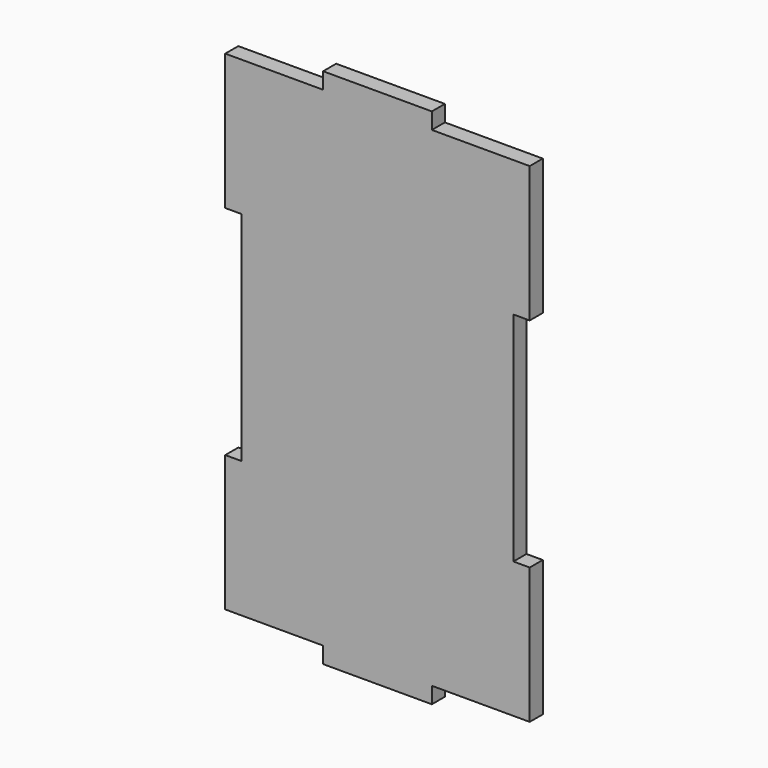
from build123d import *

# Parameters (mm, degrees)
F1_DEPTH = 3


with BuildPart() as f1:
    # F0 (on Front) → F1 (new body)
    with BuildSketch(Plane.XZ):
        Polygon((10, 48), (0, 48), (-10, 48), (-10, 45), (-28, 45), (-28, 20), (-25, 20), (-25, 0), (-25, -20), (-28, -20), (-28, -45), (-10, -45), (-10, -48), (0, -48), (10, -48), (10, -45), (28, -45), (28, -20), (25, -20), (25, 0), (25, 20), (28, 20), (28, 45), (10, 45), align=None)
    extrude(amount=F1_DEPTH)


solid = f1.part
